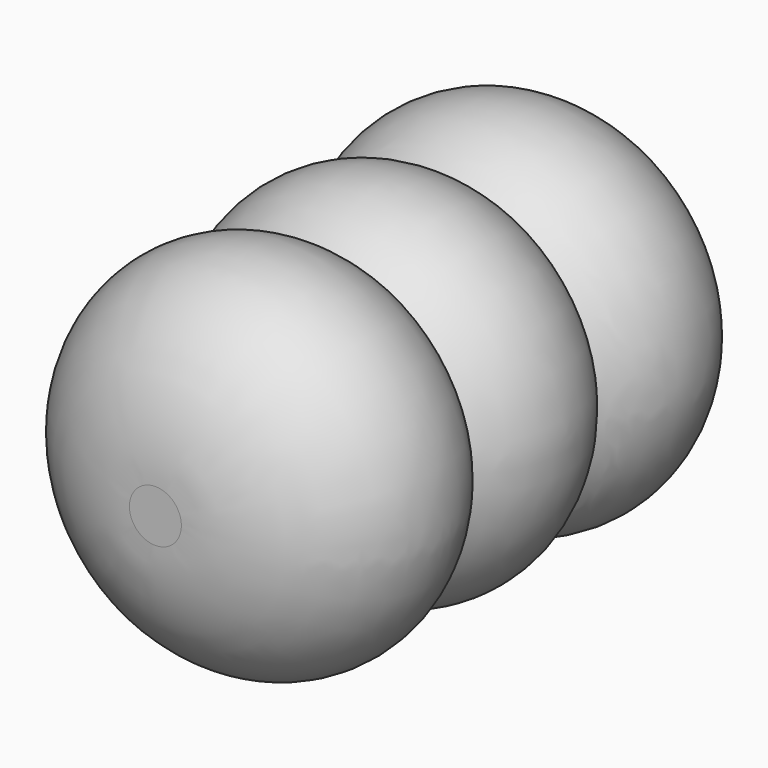
from build123d import *


with BuildPart() as f1:
    # F0 (on Top) → F1 (revolve)
    with BuildSketch(Plane.XY):
        with BuildLine():
            Line((-2.5, -12.5), (0, -12.5))
            add(Edge.make_bspline(
                [(0, -12.5), (15, -12.5), (15, 0), (15, 12.5), (0, 12.5)],
                knots=[1.5707963268, 1.5707963268, 1.5707963268, 3.1415926536, 3.1415926536, 4.7123889804, 4.7123889804, 4.7123889804], degree=2, weights=[1, 0.7071067812, 1, 0.7071067812, 1]))
            Line((0, 12.5), (-2.5, 12.5))
            Line((-2.5, 12.5), (-2.5, -12.5))
        make_face()
    revolve(axis=Axis((-2.5, 0, 0), (0, -1, 0)))

    # F3: F1 across plane


with BuildPart() as f1_1:
    add(f1.part)
    add(f1.part.mirror(Plane.XZ.offset(-7.5)))

    # F4: F1 across plane


with BuildPart() as f1_2:
    add(f1_1.part)
    add(f1_1.part.mirror(Plane.XZ))


solid = f1_2.part
